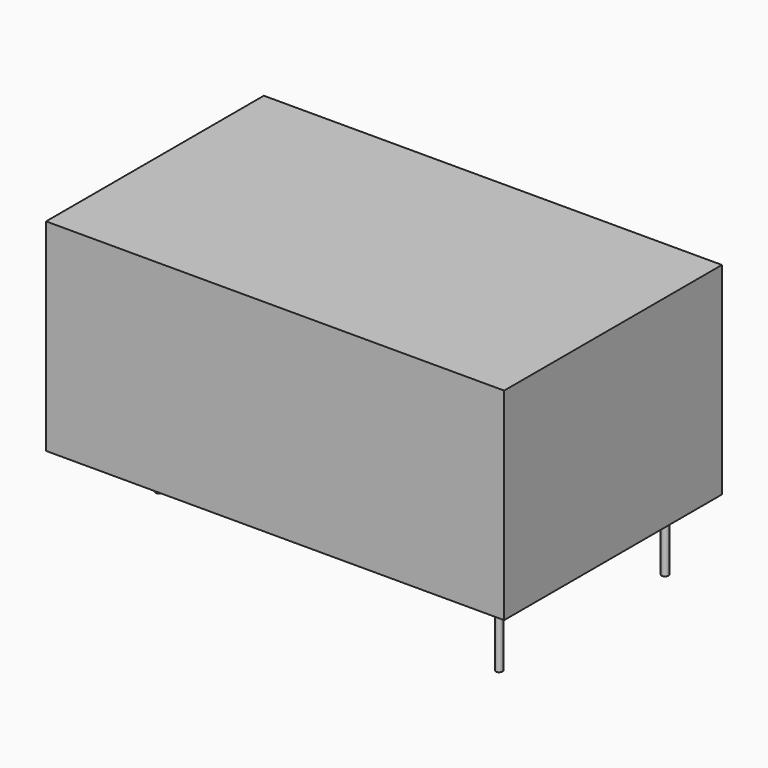
from build123d import *

# Parameters (mm, degrees)
F0_W     = 34
F0_H     = 20.2
F0_R     = 0.25
F1_DEPTH = 15
F2_DEPTH = 5


with BuildPart() as f1:
    # F0 (on Top) → F1 (new body)
    with BuildSketch(Plane.XY):
        Rectangle(F0_W, F0_H)
        with Locations((-14.7, -2.5)):
            Circle(F0_R, mode=Mode.SUBTRACT)
        with Locations((14.7, -7.7)):
            Circle(F0_R, mode=Mode.SUBTRACT)
        with Locations((-14.7, 2.5)):
            Circle(F0_R, mode=Mode.SUBTRACT)
        with Locations((14.7, 7.7)):
            Circle(F0_R, mode=Mode.SUBTRACT)
        with Locations((14.7, 7.7)):
            Circle(F0_R)
        with Locations((-14.7, -2.5)):
            Circle(F0_R)
        with Locations((-14.7, 2.5)):
            Circle(F0_R)
        with Locations((14.7, -7.7)):
            Circle(F0_R)
    extrude(amount=F1_DEPTH)

    # F0 (on Top) → F2 (join)
    with BuildSketch(Plane.XY):
        with Locations((14.7, 7.7)):
            Circle(F0_R)
        with Locations((-14.7, -2.5)):
            Circle(F0_R)
        with Locations((-14.7, 2.5)):
            Circle(F0_R)
        with Locations((14.7, -7.7)):
            Circle(F0_R)
    extrude(amount=-F2_DEPTH)


solid = f1.part
